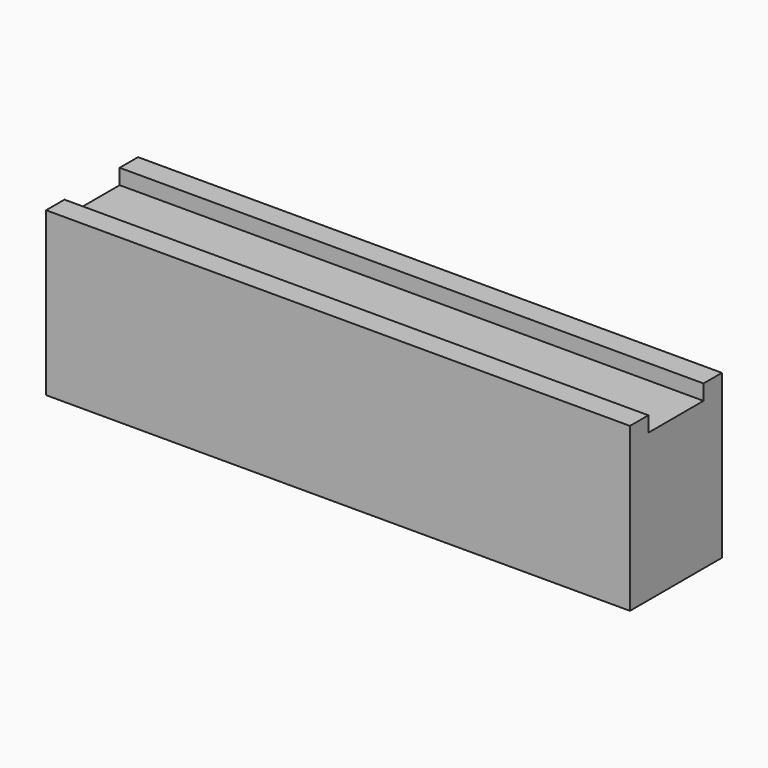
from build123d import *

# Parameters (mm, degrees)
PAD001_DEPTH    = 30.48
SKETCH003_W     = 1.5
SKETCH003_H     = 1.5
POCKET_DEPTH    = 7.5
CHAMFER008_SIZE = 0.2


with BuildPart() as part:
    # Sketch001 → Pad001 (new body)
    with BuildSketch(Plane.YZ.offset(-3.51)):
        Polygon((0, 8.5), (1.2, 8.5), (1.2, 7.7), (4.8, 7.7), (4.8, 8.5), (6, 8.5), (6, 0), (0, 0), align=None)
    extrude(amount=PAD001_DEPTH)

    # Sketch003 → Pocket (cut)
    with BuildSketch(Plane(origin=(-3.51, 0, 0), x_dir=(0, 1, 0), z_dir=(0, 0, -1))):
        with Locations((1.73, 3.81)):
            Rectangle(SKETCH003_W, SKETCH003_H)
    extrude(amount=-POCKET_DEPTH, mode=Mode.SUBTRACT)

    # Chamfer008
    chamfer008_edges = [part.edges().sort_by_distance(p)[0] for p in [
        (-0.45, 1.73, 0),
        (0.3, 2.48, 0),
        (1.05, 1.73, 0),
        (0.3, 0.98, 0),
    ]]
    chamfer(chamfer008_edges, length=CHAMFER008_SIZE)


solid = part.part
